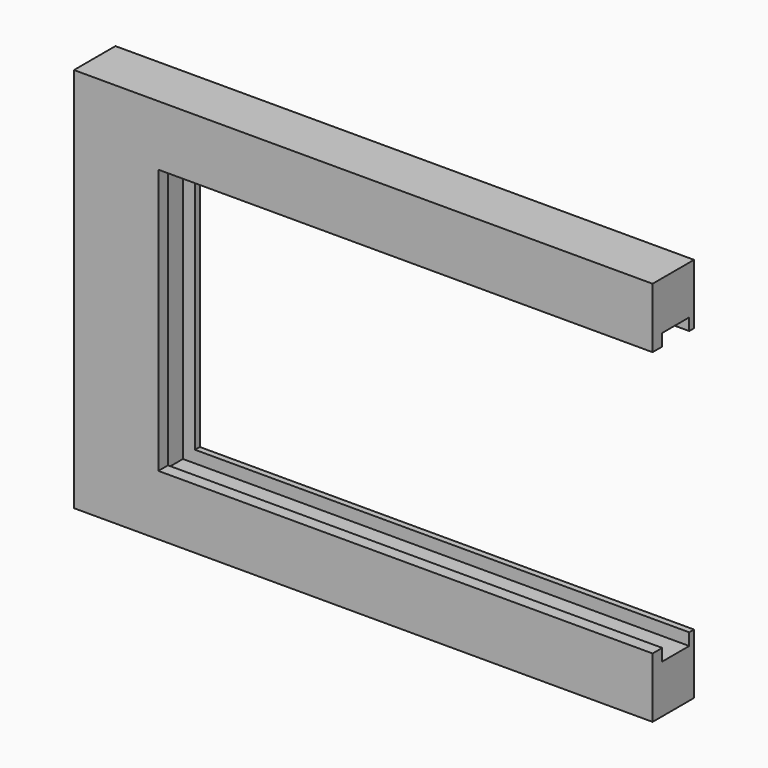
from build123d import *

# Parameters (mm, degrees)
F1_DEPTH = 35.56
F3_DEPTH = 6.35
F5_DEPTH = 12.7
F6_W     = 50.8
F6_H     = 406.4
F7_DEPTH = 162.56


with BuildPart() as f1:
    # F0 (on Front) → F1 (new body)
    with BuildSketch(Plane.XZ):
        Polygon((-254, 152.4), (254, 152.4), (330.2, 152.4), (330.2, 203.2), (-330.2, 203.2), (-330.2, -203.2), (330.2, -203.2), (330.2, -152.4), (254, -152.4), (-254, -152.4), align=None)
    extrude(amount=F1_DEPTH)

    # F2 (on face) + F1_face (on face) → F3 (join)
    with BuildSketch(Plane(origin=(0, 0, 0), x_dir=(-1, 0, 0), z_dir=(0, 1, 0))):
        Polygon((254, 152.4), (-330.2, 152.4), (-330.2, 139.7), (241.3, 139.7), (241.3, -139.7), (-330.2, -139.7), (-330.2, -152.4), (254, -152.4), align=None)
        Polygon((330.2, 203.2), (-330.2, 203.2), (-330.2, 152.4), (254, 152.4), (254, -152.4), (-330.2, -152.4), (-330.2, -203.2), (330.2, -203.2), align=None)
    with BuildSketch(Plane(origin=(-75.111429, 0, 0), x_dir=(1, 0, 0), z_dir=(0, 1, 0))):
        Polygon((-178.888571, -152.4), (405.311429, -152.4), (405.311429, -203.2), (-255.088571, -203.2), (-255.088571, 203.2), (405.311429, 203.2), (405.311429, 152.4), (-178.888571, 152.4), align=None)
    extrude(amount=F3_DEPTH)

    # F4 (on face) → F5 (join)
    with BuildSketch(Plane.XZ.offset(35.56)):
        Polygon((330.2, 203.2), (-330.2, 203.2), (-330.2, -203.2), (330.2, -203.2), (330.2, -152.4), (-254, -152.4), (-254, 152.4), (330.2, 152.4), align=None)
        Polygon((330.2, 139.7), (330.2, 152.4), (-254, 152.4), (-254, -152.4), (330.2, -152.4), (330.2, -139.7), (-241.3, -139.7), (-241.3, 139.7), align=None)
    extrude(amount=F5_DEPTH)

    # F6 (on face) → F7 (cut)
    with BuildSketch(Plane(origin=(0, 6.35, 0), x_dir=(-1, 0, 0), z_dir=(0, 1, 0))):
        with Locations((-304.8, 0)):
            Rectangle(F6_W, F6_H)
    extrude(amount=-F7_DEPTH, mode=Mode.SUBTRACT)


solid = f1.part
